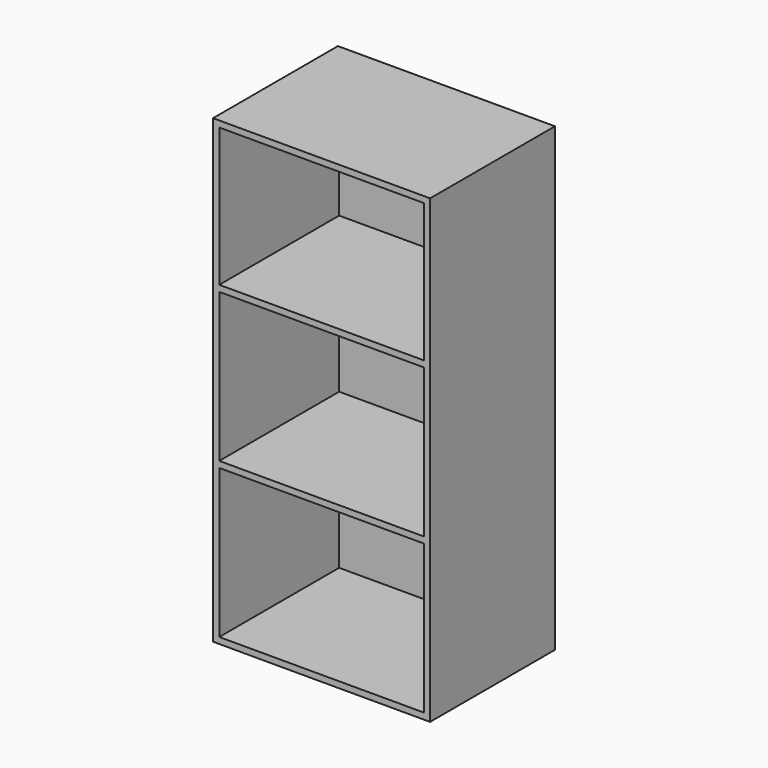
from build123d import *

# Parameters (mm, degrees)
F0_W      = 420
F0_H      = 290
F1_DEPTH  = 12
F2_W      = 12
F2_H      = 290
F3_DEPTH  = 880
F7_W      = 420
F7_H      = 290
F8_DEPTH  = 12
F9_W      = 420
F9_H      = 290
F10_DEPTH = 12
F13_W     = 420
F13_H     = 290
F14_DEPTH = 12
F15_W     = 420
F15_H     = 892
F16_DEPTH = 12


with BuildPart() as f1:
    # F0 (on Top) → F1 (new body)
    with BuildSketch(Plane.XY):
        with Locations((210, 145)):
            Rectangle(F0_W, F0_H)
    extrude(amount=F1_DEPTH)

    # F2 (on face) → F3 (join)
    with BuildSketch(Plane.XY.offset(12)):
        with Locations((6, 145)):
            Rectangle(F2_W, F2_H)
        with Locations((414, 145)):
            Rectangle(F2_W, F2_H)
    extrude(amount=F3_DEPTH)

    # F7 (on offset) → F8 (join)
    with BuildSketch(Plane.XY.offset(300)):
        with Locations((210, 145)):
            Rectangle(F7_W, F7_H)
    extrude(amount=F8_DEPTH)

    # F9 (on offset) → F10 (join)
    with BuildSketch(Plane.XY.offset(600)):
        with Locations((210, 145)):
            Rectangle(F9_W, F9_H)
    extrude(amount=F10_DEPTH)

    # F13 (on 3pt) → F14 (join)
    with BuildSketch(Plane(origin=(0, 0, 892), x_dir=(1, 0, 0), z_dir=(0, 0, -1))):
        with Locations((210, -145)):
            Rectangle(F13_W, F13_H)
    extrude(amount=F14_DEPTH)

    # F15 (on face) → F16 (join)
    with BuildSketch(Plane(origin=(0, 290, 0), x_dir=(-1, 0, 0), z_dir=(0, 1, 0))):
        with Locations((-210, 446)):
            Rectangle(F15_W, F15_H)
    extrude(amount=F16_DEPTH)


solid = f1.part
